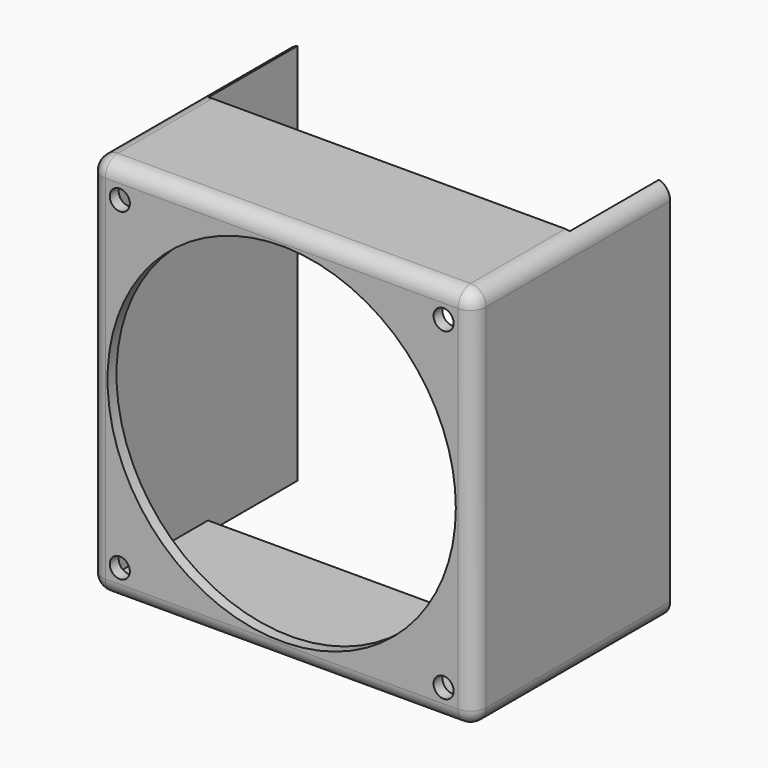
from build123d import *

# Parameters (mm, degrees)
F0_W     = 81
F0_H     = 81
F0_R     = 2.25
F0_R_2   = 39
F1_DEPTH = 2.5
F0_W_2   = 86
F0_H_2   = 86
F2_DEPTH = 55
F3_W     = 81
F3_H     = 25
F4_DEPTH = 100
F5_R     = 3.5


with BuildPart() as f1:
    # F0 (on Front) → F1 (new body)
    with BuildSketch(Plane.XZ):
        Rectangle(F0_W, F0_H)
        with Locations((-36.257359, -36.257359)):
            Circle(F0_R, mode=Mode.SUBTRACT)
        with Locations((36.257359, -36.257359)):
            Circle(F0_R, mode=Mode.SUBTRACT)
        with Locations((-36.257359, 36.257359)):
            Circle(F0_R, mode=Mode.SUBTRACT)
        Circle(F0_R_2, mode=Mode.SUBTRACT)
        with Locations((36.257359, 36.257359)):
            Circle(F0_R, mode=Mode.SUBTRACT)
    extrude(amount=-F1_DEPTH)

    # F0 (on Front) → F2 (join)
    with BuildSketch(Plane.XZ):
        Rectangle(F0_W_2, F0_H_2)
        Rectangle(F0_W, F0_H, mode=Mode.SUBTRACT)
    extrude(amount=-F2_DEPTH)

    # F3 (on face) → F4 (cut)
    with BuildSketch(Plane(origin=(0, 0, -43), x_dir=(1, 0, 0), z_dir=(0, 0, -1))):
        with Locations((0, -42.5)):
            Rectangle(F3_W, F3_H)
    extrude(amount=-F4_DEPTH, mode=Mode.SUBTRACT)

    # F5
    f5_edges = [f1.edges().sort_by_distance(p)[0] for p in [
        (0, 0, -43),
        (-43, 0, 0),
        (43, 0, 0),
        (0, 0, 43),
        (-43, 27.5, 43),
        (-43, 27.5, -43),
        (43, 27.5, -43),
        (43, 27.5, 43),
    ]]
    fillet(f5_edges, radius=F5_R)


solid = f1.part
